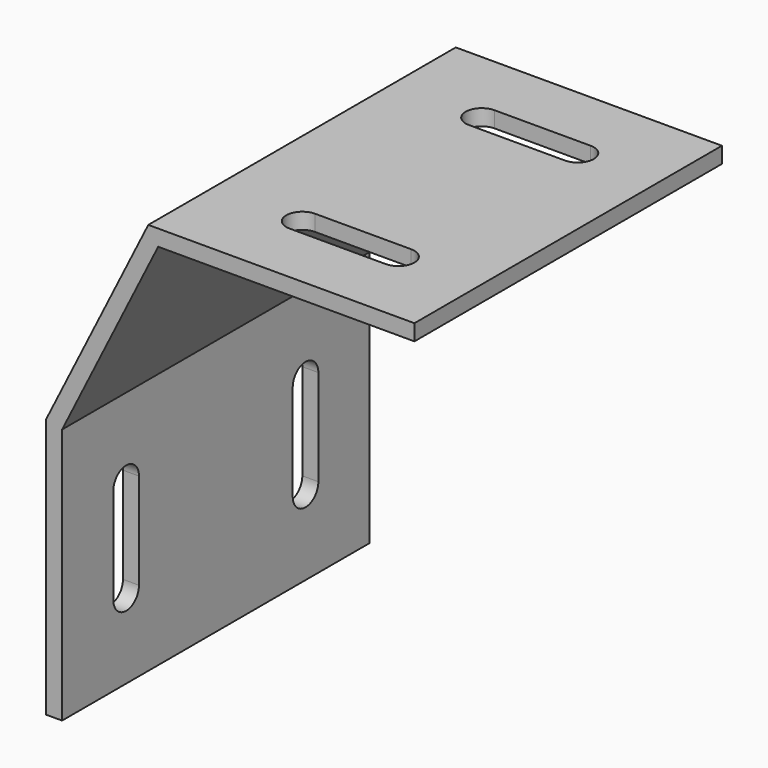
from build123d import *

# Parameters (mm, degrees)
F1_DEPTH = 76.2
F3_DEPTH = 92.076
F4_DEPTH = 92.076
F5_W     = 6.35
F5_H     = 19.05
F6_DEPTH = 73.026
F7_W     = 6.35
F7_H     = 19.05
F8_DEPTH = 73.026


with BuildPart() as f1:
    # F0 (on Front) → F1 (new body)
    with BuildSketch(Plane.XZ):
        Polygon((0, -50.8), (0, 0), (19.05, 38.1), (69.85, 38.1), (69.85, 41.275), (17.087742, 41.275), (-3.175, 0.749516), (-3.175, -50.8), align=None)
    extrude(amount=F1_DEPTH)

    # F2 (on face) → F3 (cut, through all)
    with BuildSketch(Plane.XY.offset(41.275)):
        with BuildLine():
            ThreePointArc((53.975, -19.05), (56.220064, -18.120064), (57.15, -15.875))
            ThreePointArc((57.15, -15.875), (56.220064, -13.629936), (53.975, -12.7))
            ThreePointArc((53.975, -12.7), (50.8, -15.875), (53.975, -19.05))
        make_face()
        with BuildLine():
            ThreePointArc((53.975, -19.05), (50.8, -15.875), (53.975, -12.7))
            Line((53.975, -12.7), (34.925, -12.7))
            ThreePointArc((34.925, -12.7), (37.170064, -13.629936), (38.1, -15.875))
            ThreePointArc((38.1, -15.875), (37.170064, -18.120064), (34.925, -19.05))
            Line((34.925, -19.05), (53.975, -19.05))
        make_face()
        with BuildLine():
            ThreePointArc((38.1, -15.875), (37.170064, -13.629936), (34.925, -12.7))
            ThreePointArc((34.925, -12.7), (31.75, -15.875), (34.925, -19.05))
            ThreePointArc((34.925, -19.05), (37.170064, -18.120064), (38.1, -15.875))
        make_face()
    extrude(amount=-F3_DEPTH, mode=Mode.SUBTRACT)

    # F2 (on face) → F4 (cut, through all)
    with BuildSketch(Plane.XY.offset(41.275)):
        with BuildLine():
            ThreePointArc((38.1, -60.325), (37.170064, -58.079936), (34.925, -57.15))
            ThreePointArc((34.925, -57.15), (31.75, -60.325), (34.925, -63.5))
            ThreePointArc((34.925, -63.5), (37.170064, -62.570064), (38.1, -60.325))
        make_face()
        with BuildLine():
            ThreePointArc((53.975, -63.5), (56.220064, -62.570064), (57.15, -60.325))
            ThreePointArc((57.15, -60.325), (56.220064, -58.079936), (53.975, -57.15))
            ThreePointArc((53.975, -57.15), (50.8, -60.325), (53.975, -63.5))
        make_face()
        with BuildLine():
            ThreePointArc((53.975, -63.5), (50.8, -60.325), (53.975, -57.15))
            Line((53.975, -57.15), (34.925, -57.15))
            ThreePointArc((34.925, -57.15), (37.170064, -58.079936), (38.1, -60.325))
            ThreePointArc((38.1, -60.325), (37.170064, -62.570064), (34.925, -63.5))
            Line((34.925, -63.5), (53.975, -63.5))
        make_face()
    extrude(amount=-F4_DEPTH, mode=Mode.SUBTRACT)

    # F5 (on face) → F6 (cut, through all)
    with BuildSketch(Plane(origin=(-3.175, 0, 0), x_dir=(0, -1, 0), z_dir=(-1, 0, 0))):
        with BuildLine():
            Line((19.05, -34.925), (12.7, -34.925))
            ThreePointArc((12.7, -34.925), (15.875, -38.1), (19.05, -34.925))
        make_face()
        with BuildLine():
            ThreePointArc((19.05, -15.875), (15.875, -12.7), (12.7, -15.875))
            Line((12.7, -15.875), (19.05, -15.875))
        make_face()
        with Locations((15.875, -25.4)):
            Rectangle(F5_W, F5_H)
    extrude(amount=-F6_DEPTH, mode=Mode.SUBTRACT)

    # F7 (on face) → F8 (cut, through all)
    with BuildSketch(Plane(origin=(-3.175, 0, 0), x_dir=(0, -1, 0), z_dir=(-1, 0, 0))):
        with BuildLine():
            Line((57.15, -15.875), (63.5, -15.875))
            ThreePointArc((63.5, -15.875), (60.325, -12.7), (57.15, -15.875))
        make_face()
        with BuildLine():
            ThreePointArc((57.15, -34.925), (60.325, -38.1), (63.5, -34.925))
            Line((63.5, -34.925), (57.15, -34.925))
        make_face()
        with Locations((60.325, -25.4)):
            Rectangle(F7_W, F7_H)
    extrude(amount=-F8_DEPTH, mode=Mode.SUBTRACT)


solid = f1.part
